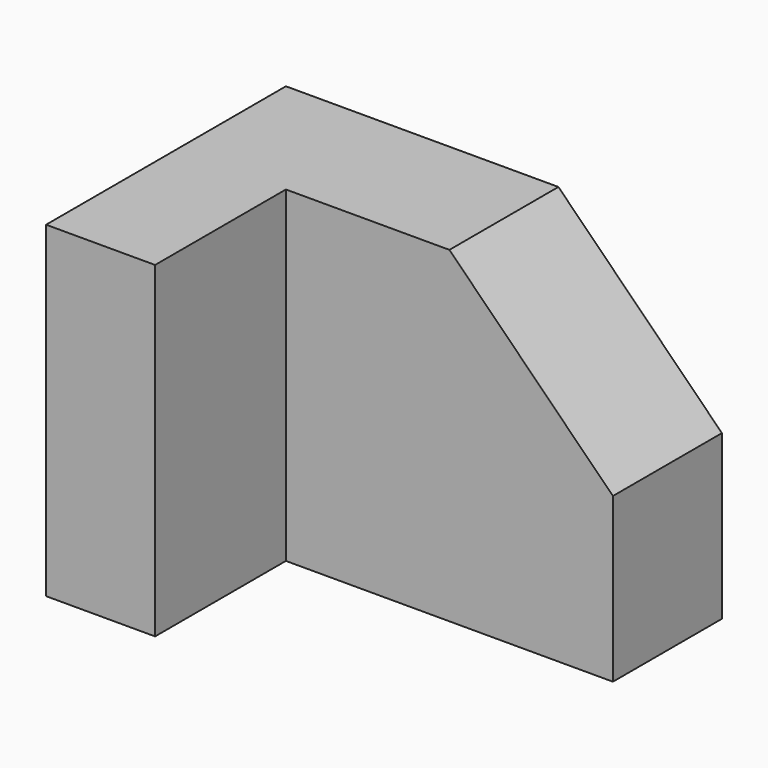
from build123d import *

# Parameters (mm, degrees)
F1_DEPTH = 25
F2_W     = 20
F2_H     = 60
F3_DEPTH = 30


with BuildPart() as f1:
    # F0 (on Front) → F1 (new body)
    with BuildSketch(Plane.XZ):
        Polygon((-40, 30), (-40, -30), (40, -30), (40, 0), (10, 30), align=None)
    extrude(amount=F1_DEPTH)

    # F2 (on face) → F3 (join)
    with BuildSketch(Plane.XZ.offset(25)):
        with Locations((-30, 0)):
            Rectangle(F2_W, F2_H)
    extrude(amount=F3_DEPTH)


solid = f1.part
